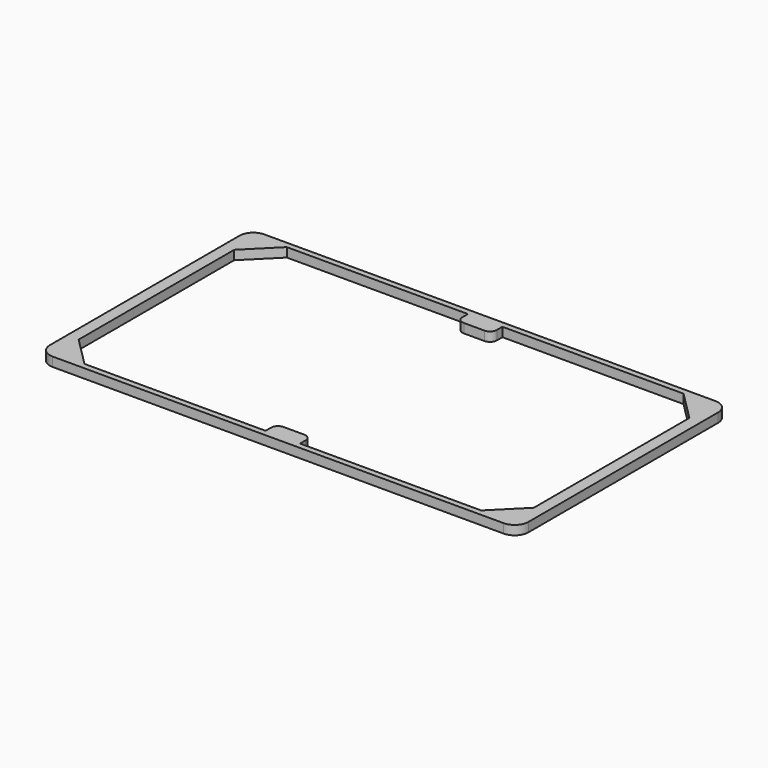
from build123d import *

# Parameters (mm, degrees)
F0_W     = 208
F0_H     = 115
F0_W_2   = 197.84
F0_H_2   = 109.92
F1_DEPTH = 4
F2_R     = 6
F3_SIZE  = 12.7
F4_W     = 15
F4_H     = 4
F5_DEPTH = 6
F6_W     = 15
F6_H     = 4
F7_DEPTH = 6
F8_R     = 3


with BuildPart() as f1:
    # F0 (on Top) → F1 (new body)
    with BuildSketch(Plane.XY):
        with Locations((104, 57.5)):
            Rectangle(F0_W, F0_H)
        with Locations((104, 57.5)):
            Rectangle(F0_W_2, F0_H_2, mode=Mode.SUBTRACT)
    extrude(amount=F1_DEPTH)

    # F2
    f2_edges = [f1.edges().sort_by_distance(p)[0] for p in [
        (0, 115, 2),
        (208, 115, 2),
        (208, 0, 2),
        (0, 0, 2),
    ]]
    fillet(f2_edges, radius=F2_R)

    # F3
    f3_edges = [f1.edges().sort_by_distance(p)[0] for p in [
        (5.08, 112.46, 2),
        (202.92, 2.54, 2),
        (202.92, 112.46, 2),
        (5.08, 2.54, 2),
    ]]
    chamfer(f3_edges, length=F3_SIZE)

    # F4 (on face) → F5 (join)
    with BuildSketch(Plane(origin=(0, 2.54, 0), x_dir=(-1, 0, 0), z_dir=(0, 1, 0))):
        with Locations((-104, 2)):
            Rectangle(F4_W, F4_H)
    extrude(amount=F5_DEPTH)

    # F6 (on face) → F7 (join)
    with BuildSketch(Plane.XZ.offset(-112.46)):
        with Locations((104, 2)):
            Rectangle(F6_W, F6_H)
    extrude(amount=F7_DEPTH)

    # F8
    f8_edges = [f1.edges().sort_by_distance(p)[0] for p in [
        (96.5, 106.46, 2),
        (111.5, 106.46, 2),
        (111.5, 8.54, 2),
        (96.5, 8.54, 2),
    ]]
    fillet(f8_edges, radius=F8_R)


solid = f1.part
